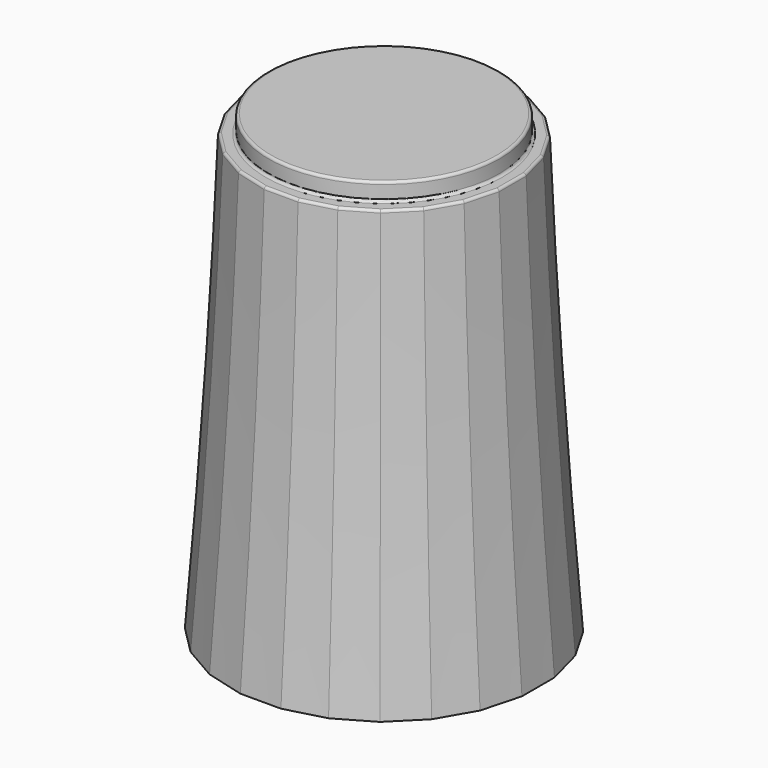
from build123d import *

# Parameters (mm, degrees)
SKETCH051_R     = 4.5
PAD012_DEPTH    = 0.7
SKETCH050_R     = 5
POCKET019_DEPTH = 1
SKETCH048_R     = 4.65
POCKET018_DEPTH = 1
POCKET020_DEPTH = 8
CHAMFER014_SIZE = 1.4
CHAMFER010_SIZE = 0.3
FILLET007_R     = 0.1


with BuildPart() as part:
    # Sketch053 → AdditiveLoft005 section 0
    with BuildSketch(Plane.XY):
        Polygon((-0.789915, 6), (-2.315914, 5.59111), (-3.684086, 4.801195), (-4.801195, 3.684086), (-5.59111, 2.315914), (-6, 0.789915), (-6, -0.789915), (-5.59111, -2.315914), (-4.801195, -3.684086), (-3.684086, -4.801195), (-2.315914, -5.59111), (-0.789915, -6), (0.789915, -6), (2.315914, -5.59111), (3.684086, -4.801195), (4.801195, -3.684086), (5.59111, -2.315914), (6, -0.789915), (6, 0.789915), (5.59111, 2.315914), (4.801195, 3.684086), (3.684086, 4.801195), (2.315914, 5.59111), (0.789915, 6), align=None)
    # Sketch052 → AdditiveLoft005 section 1
    with BuildSketch(Plane.XY.offset(7)):
        Polygon((-0.724089, 5.5), (-2.122921, 5.125184), (-3.377079, 4.401095), (-4.401095, 3.377079), (-5.125184, 2.122921), (-5.5, 0.724089), (-5.5, -0.724089), (-5.125184, -2.122921), (-4.401095, -3.377079), (-3.377079, -4.401095), (-2.122921, -5.125184), (-0.724089, -5.5), (0.724089, -5.5), (2.122921, -5.125184), (3.377079, -4.401095), (4.401095, -3.377079), (5.125184, -2.122921), (5.5, -0.724089), (5.5, 0.724089), (5.125184, 2.122921), (4.401095, 3.377079), (3.377079, 4.401095), (2.122921, 5.125184), (0.724089, 5.5), align=None)
    # Sketch054 → AdditiveLoft005 section 2
    with BuildSketch(Plane.XY.offset(17)):
        Polygon((-4.659258, 1.929928), (-5, 0.658262), (-5, -0.658262), (-4.659258, -1.929928), (-4.000996, -3.070072), (-3.070072, -4.000996), (-1.929928, -4.659258), (-0.658262, -5), (0.658262, -5), (1.929928, -4.659258), (3.070072, -4.000996), (4.000996, -3.070072), (4.659258, -1.929928), (5, -0.658262), (5, 0.658262), (4.659258, 1.929928), (4.000996, 3.070072), (3.070072, 4.000996), (1.929928, 4.659258), (0.658262, 5), (-0.658262, 5), (-1.929928, 4.659258), (-3.070072, 4.000996), (-4.000996, 3.070072), align=None)
    loft()

    # Sketch051 (on Face3 of AdditiveLoft005) → Pad012 (new body)
    with BuildSketch(Plane.XY.offset(17)):
        Circle(SKETCH051_R)
    extrude(amount=PAD012_DEPTH)

    # Sketch050 (on Face1 of Pad012) → Pocket019 (cut)
    with BuildSketch(Plane(origin=(0, 0, 0), x_dir=(1, 0, 0), z_dir=(0, 0, -1))):
        Circle(SKETCH050_R)
    extrude(amount=-POCKET019_DEPTH, mode=Mode.SUBTRACT)

    # Sketch048 (on Face28 of Pocket019) → Pocket018 (cut)
    with BuildSketch(Plane(origin=(0, 0, 1), x_dir=(1, 0, 0), z_dir=(0, 0, -1))):
        Circle(SKETCH048_R)
    extrude(amount=-POCKET018_DEPTH, mode=Mode.SUBTRACT)

    # Sketch049 (on Face32 of Pocket018) → Pocket020 (cut)
    with BuildSketch(Plane(origin=(0, 0, 2), x_dir=(1, 0, 0), z_dir=(0, 0, -1))):
        with BuildLine():
            ThreePointArc((-1.741757, 2.442598), (0, -3), (1.741757, 2.442598))
            Line((-1.741757, 2.442598), (1.741757, 2.442598))
        make_face()
    extrude(amount=-POCKET020_DEPTH, mode=Mode.SUBTRACT)

    # Chamfer014
    chamfer014_edges = [part.edges().sort_by_distance(p)[0] for p in [
        (0, 3, 2),
        (0, -2.442598, 2),
    ]]
    chamfer(chamfer014_edges, length=CHAMFER014_SIZE)

    # Chamfer010
    chamfer010_edges = [part.edges().sort_by_distance(p)[0] for p in [
        (-4.65, 0, 1),
    ]]
    chamfer(chamfer010_edges, length=CHAMFER010_SIZE)

    # Fillet007
    fillet007_edges = [part.edges().sort_by_distance(p)[0] for p in [
        (-4.5, 0, 17.7),
        (-4.829629, 1.294095, 17),
        (-4.330127, 2.5, 17),
        (-5, 0, 17),
        (-3.535534, 3.535534, 17),
        (-4.829629, -1.294095, 17),
        (-2.5, 4.330127, 17),
        (-4.330127, -2.5, 17),
        (-1.294095, 4.829629, 17),
        (-3.535534, -3.535534, 17),
        (0, 5, 17),
        (-2.5, -4.330127, 17),
        (1.294095, 4.829629, 17),
        (-1.294095, -4.829629, 17),
        (2.5, 4.330127, 17),
        (0, -5, 17),
        (3.535534, 3.535534, 17),
        (1.294095, -4.829629, 17),
        (4.330127, 2.5, 17),
        (2.5, -4.330127, 17),
        (4.829629, 1.294095, 17),
        (3.535534, -3.535534, 17),
        (5, 0, 17),
        (4.330127, -2.5, 17),
        (4.829629, -1.294095, 17),
        (-4.5, 0, 17),
    ]]
    fillet(fillet007_edges, radius=FILLET007_R)


solid = part.part
